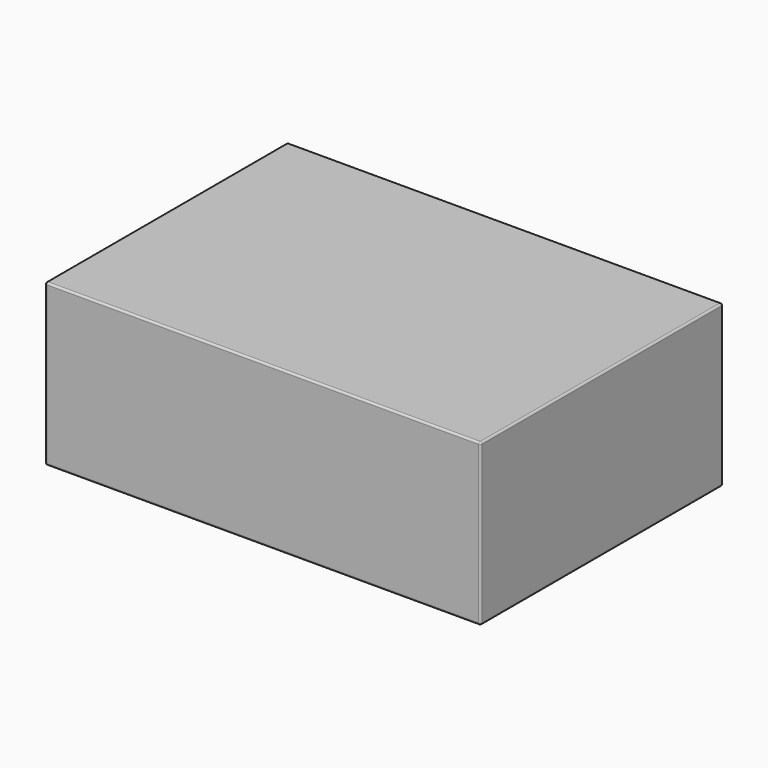
from build123d import *

# Parameters (mm, degrees)
SKETCH_W  = 230
SKETCH_H  = 160
PAD_DEPTH = 85
FILLET_R  = 1


with BuildPart() as part:
    # Sketch → Pad (new body)
    with BuildSketch(Plane.XY):
        with Locations((115, -80)):
            Rectangle(SKETCH_W, SKETCH_H)
    extrude(amount=PAD_DEPTH)

    # Fillet
    fillet_edges = [part.edges().sort_by_distance(p)[0] for p in [
        (0, 0, 42.5),
        (230, 0, 42.5),
        (115, 0, 0),
        (115, 0, 85),
        (230, -160, 42.5),
        (230, -80, 0),
        (230, -80, 85),
        (0, -160, 42.5),
        (115, -160, 0),
        (115, -160, 85),
        (0, -80, 0),
        (0, -80, 85),
    ]]
    fillet(fillet_edges, radius=FILLET_R)


solid = part.part
